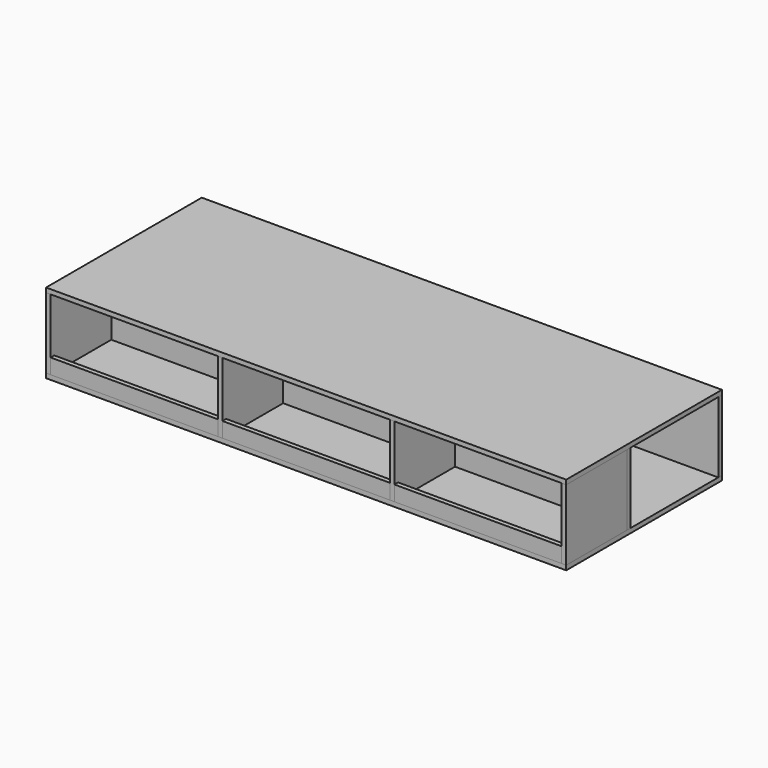
from build123d import *

# Parameters (mm, degrees)
F0_W      = 300
F0_H      = 280
F1_DEPTH  = 18
F5_W      = 2058
F5_H      = 770
F6_DEPTH  = 18
F8_W      = 2058
F8_H      = 280
F9_DEPTH  = 18
F11_W     = 18
F11_H     = 60
F12_DEPTH = 662


with BuildPart() as f1:
    # F0 (on Right) → F1 (new body)
    with BuildSketch(Plane.YZ):
        with Locations((0, 3.4457996803)):
            Rectangle(F0_W, F0_H)
    extrude(amount=F1_DEPTH)


with BuildPart() as f2_1:
    # F2: copy of F1
    add(f1.part.moved(Location((680, 0, 0))))


with BuildPart() as f3_1:
    # F3: copy of F2_1
    add(f2_1.part.moved(Location((680, 0, 0))))


with BuildPart() as f4_1:
    # F4: copy of F3_1
    add(f3_1.part.moved(Location((680, 0, 0))))


with BuildPart() as f6:
    # F5 (on face) → F6 (new body)
    with BuildSketch(Plane(origin=(0, 0, -136.5542003197), x_dir=(1, 0, 0), z_dir=(0, 0, -1))):
        with Locations((1029, -235)):
            Rectangle(F5_W, F5_H)
    extrude(amount=F6_DEPTH)


with BuildPart() as f7_1:
    # F7: copy of F6
    add(f6.part.moved(Location((0, 0, 298))))


with BuildPart() as f9:
    # F8 (on face) → F9 (new body)
    with BuildSketch(Plane(origin=(0, 150, 0), x_dir=(-1, 0, 0), z_dir=(0, 1, 0))):
        with Locations((-1029, 3.4457996803)):
            Rectangle(F8_W, F8_H)
    extrude(amount=F9_DEPTH)


with BuildPart() as f10_1:
    # F10: copy of F9
    add(f9.part.moved(Location((0, 452, 0))))


with BuildPart() as f12:
    # F11 (on face) → F12 (new body, through all)
    with BuildSketch(Plane.YZ.offset(18)):
        with Locations((-141, -106.5542003197)):
            Rectangle(F11_W, F11_H)
    extrude(amount=F12_DEPTH)


with BuildPart() as f13_1:
    # F13: copy of F12
    add(f12.part.moved(Location((680, 0, 0))))


with BuildPart() as f14_1:
    # F14: copy of F13_1
    add(f13_1.part.moved(Location((680, 0, 0))))


solid = Compound([f1.part, f2_1.part, f3_1.part, f4_1.part, f6.part, f7_1.part, f9.part, f10_1.part, f12.part, f13_1.part, f14_1.part])
